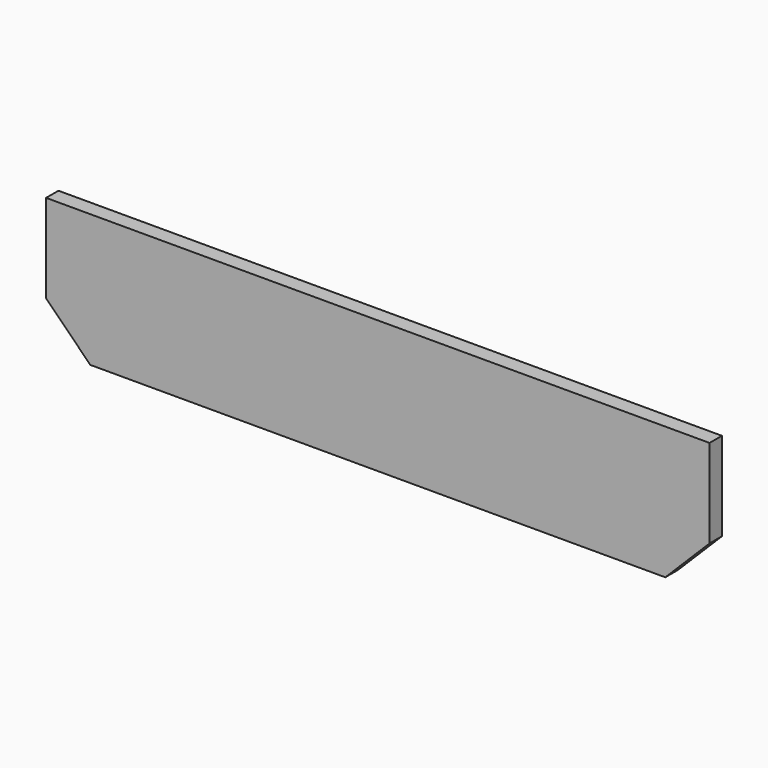
from build123d import *

# Parameters (mm, degrees)
PAD_DEPTH = 35


with BuildPart() as part:
    # Sketch → Pad (new body)
    with BuildSketch(Plane.XZ):
        Polygon((-100, 0), (-1400, 0), (-1500, 100), (-1500, 300), (0, 300), (0, 100), align=None)
    extrude(amount=PAD_DEPTH)


solid = part.part
